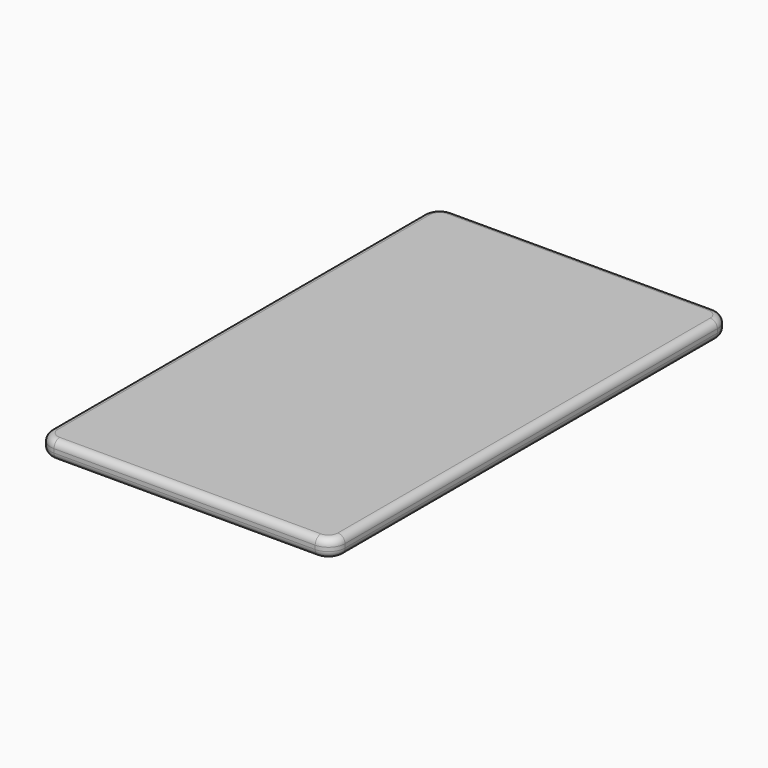
from build123d import *

# Parameters (mm, degrees)
F1_DEPTH = 7.62
F2_R     = 3
F3_R     = 3


with BuildPart() as f1:
    # F0 (on Top) → F1 (new body)
    with BuildSketch(Plane.XY):
        with BuildLine():
            ThreePointArc((-62.23, -98.41), (-60.179747, -103.359747), (-55.23, -105.41))
            Line((-55.23, -105.41), (55.23, -105.41))
            ThreePointArc((55.23, -105.41), (60.179747, -103.359747), (62.23, -98.41))
            Line((62.23, -98.41), (62.23, 98.41))
            ThreePointArc((62.23, 98.41), (60.179747, 103.359747), (55.23, 105.41))
            Line((55.23, 105.41), (-55.23, 105.41))
            ThreePointArc((-55.23, 105.41), (-60.179747, 103.359747), (-62.23, 98.41))
            Line((-62.23, 98.41), (-62.23, -98.41))
        make_face()
    extrude(amount=F1_DEPTH)

    # F2
    f2_edges = [f1.edges().sort_by_distance(p)[0] for p in [
        (-62.23, 0, 7.62),
    ]]
    fillet(f2_edges, radius=F2_R)

    # F3
    f3_edges = [f1.edges().sort_by_distance(p)[0] for p in [
        (-60.179747, -103.359747, 0),
        (0, -105.41, 0),
        (60.179747, -103.359747, 0),
        (62.23, 0, 0),
        (60.179747, 103.359747, 0),
        (0, 105.41, 0),
        (-60.179747, 103.359747, 0),
        (-62.23, 0, 0),
    ]]
    fillet(f3_edges, radius=F3_R)


solid = f1.part
